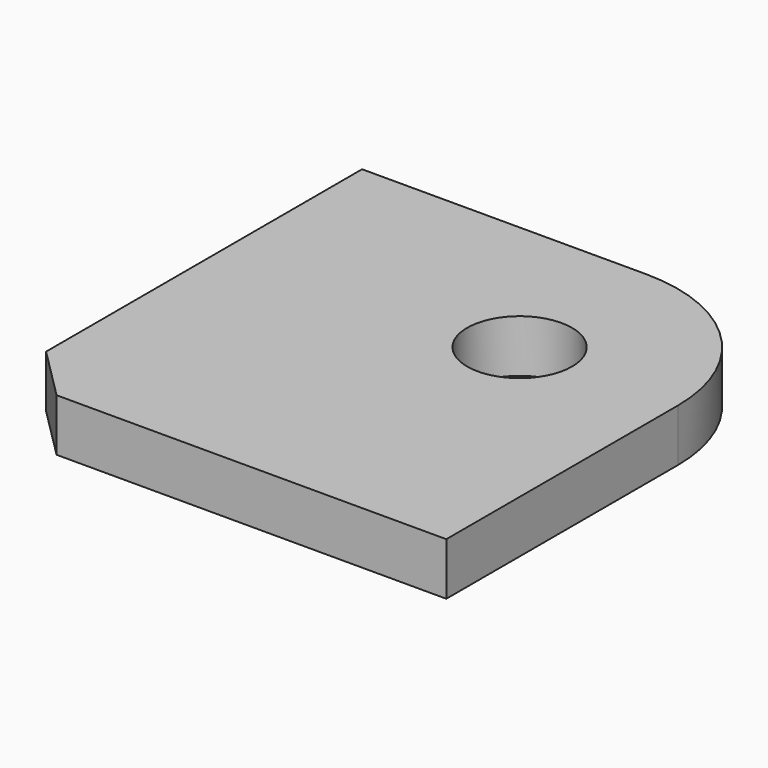
from build123d import *

# Parameters (mm, degrees)
SKETCH_W     = 84.3
SKETCH_H     = 85.3
PAD_DEPTH    = 10
SKETCH001_R  = 10
POCKET_DEPTH = 10.001


with BuildPart() as part:
    # Sketch → Pad (new body)
    with BuildSketch(Plane.XY):
        Rectangle(SKETCH_W, SKETCH_H)
    extrude(amount=PAD_DEPTH)

    # Sketch001 (on Face6 of Pad) → Pocket (cut, through all)
    with BuildSketch(Plane.XY.offset(10)):
        with Locations((12, 12.5)):
            Circle(SKETCH001_R)
        Polygon((-42.15, -32.65), (-42.15, -42.65), (-32.15, -42.65), align=None)
        with BuildLine():
            ThreePointArc((42.15, 12.50004), (33.319274, 33.819265), (12.000052, 42.65))
            Line((12.000052, 42.65), (42.15, 84.3))
            Line((42.15, 84.3), (42.15, 12.50004))
        make_face()
    extrude(amount=-POCKET_DEPTH, mode=Mode.SUBTRACT)


solid = part.part
